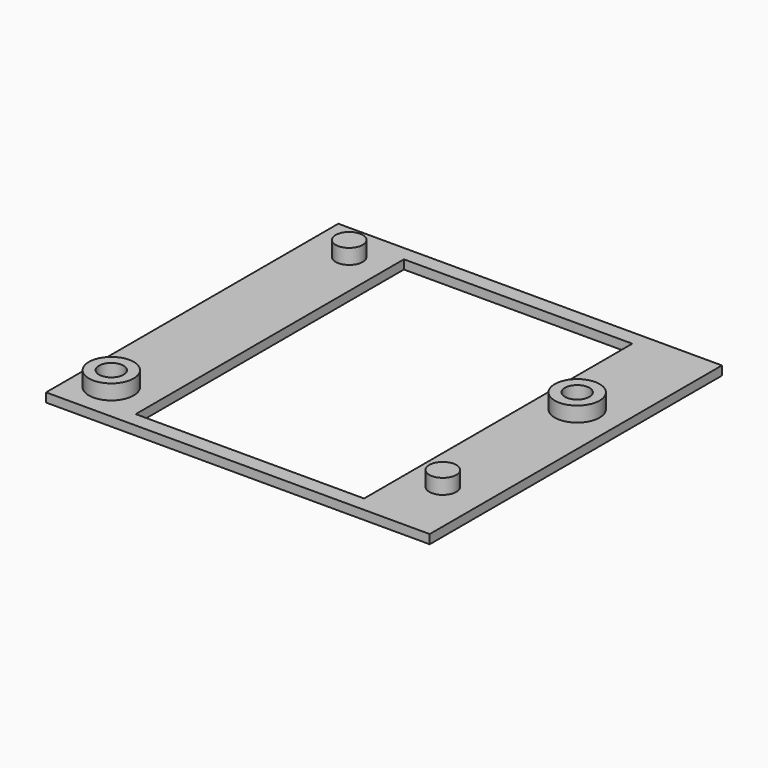
from build123d import *

# Parameters (mm, degrees)
F4_W     = 64.961583
F4_H     = 61.849
F4_W_2   = 38.670417
F4_H_2   = 56.769
F5_DEPTH = 1.524
F1_R     = 3.7973
F1_R_2   = 2.07645
F1_R_3   = 2.286
F6_DEPTH = 4.064
F7_DEPTH = 25.4


with BuildPart() as f5:
    # F4 (on Top) → F5 (new body)
    with BuildSketch(Plane.XY):
        with Locations((-58.240771, 19.304)):
            Rectangle(F4_W, F4_H)
        with Locations((-58.240772, 19.304)):
            Rectangle(F4_W_2, F4_H_2, mode=Mode.SUBTRACT)
    extrude(amount=F5_DEPTH)

    # F1 (on Top) → F6 (join)
    with BuildSketch(Plane.XY):
        with Locations((-84.910771, -5.08)):
            Circle(F1_R)
        with Locations((-84.910771, -5.08)):
            Circle(F1_R_2, mode=Mode.SUBTRACT)
        with Locations((-83.640771, 43.688)):
            Circle(F1_R_3)
        with Locations((-32.840771, 0)):
            Circle(F1_R_3)
        with Locations((-32.840771, 28.448)):
            Circle(F1_R)
        with Locations((-32.840771, 28.448)):
            Circle(F1_R_2, mode=Mode.SUBTRACT)
    extrude(amount=F6_DEPTH)

    # F1 (on Top) → F7 (cut)
    with BuildSketch(Plane.XY):
        with Locations((-84.910771, -5.08)):
            Circle(F1_R_2)
        with Locations((-32.840771, 28.448)):
            Circle(F1_R_2)
    extrude(amount=F7_DEPTH, mode=Mode.SUBTRACT)


solid = f5.part
